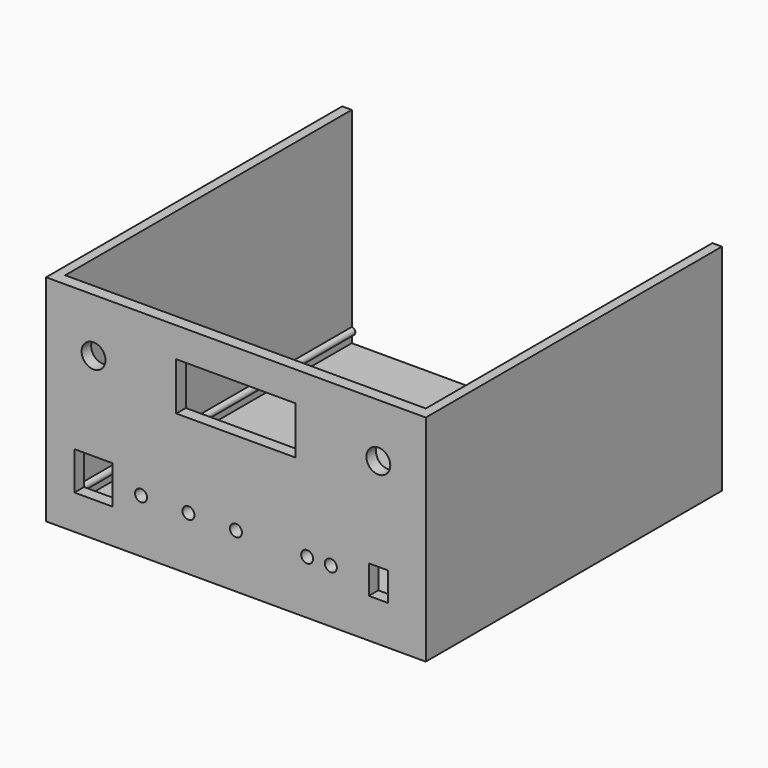
from build123d import *

# Parameters (mm, degrees)
F0_W     = 159
F0_H     = 90
F0_W_2   = 16
F0_H_2   = 16
F0_R     = 2.5
F0_W_3   = 8
F0_H_3   = 12
F0_R_2   = 5
F0_W_4   = 50
F0_H_4   = 20
F1_DEPTH = 5
F3_DEPTH = 150


with BuildPart() as f1:
    # F0 (on Front) → F1 (new body)
    with BuildSketch(Plane.XZ):
        with Locations((0, 45)):
            Rectangle(F0_W, F0_H)
        with Locations((-59.625, 22.5)):
            Rectangle(F0_W_2, F0_H_2, mode=Mode.SUBTRACT)
        with Locations((-39.75, 22.5)):
            Circle(F0_R, mode=Mode.SUBTRACT)
        with Locations((-19.875, 22.5)):
            Circle(F0_R, mode=Mode.SUBTRACT)
        with Locations((0, 22.5)):
            Circle(F0_R, mode=Mode.SUBTRACT)
        with Locations((29.8125, 22.5)):
            Circle(F0_R, mode=Mode.SUBTRACT)
        with Locations((39.75, 22.5)):
            Circle(F0_R, mode=Mode.SUBTRACT)
        with Locations((59.625, 22.5)):
            Rectangle(F0_W_3, F0_H_3, mode=Mode.SUBTRACT)
        with Locations((-59.625, 67.5)):
            Circle(F0_R_2, mode=Mode.SUBTRACT)
        with Locations((0, 67.5)):
            Rectangle(F0_W_4, F0_H_4, mode=Mode.SUBTRACT)
        with Locations((59.625, 67.5)):
            Circle(F0_R_2, mode=Mode.SUBTRACT)
    extrude(amount=F1_DEPTH)

    # F2 (on face) → F3 (join)
    with BuildSketch(Plane(origin=(0, 0, 0), x_dir=(-1, 0, 0), z_dir=(0, 1, 0))):
        with BuildLine():
            Line((75.5, 4), (-75.5, 4))
            Line((-75.5, 4), (-75.5, 7))
            ThreePointArc((-75.5, 7), (-74, 8.5), (-75.5, 10))
            Line((-75.5, 10), (-75.5, 90))
            Line((-75.5, 90), (-79.5, 90))
            Line((-79.5, 90), (-79.5, 0))
            Line((-79.5, 0), (79.5, 0))
            Line((79.5, 0), (79.5, 90))
            Line((79.5, 90), (75.5, 90))
            Line((75.5, 90), (75.5, 10))
            ThreePointArc((75.5, 10), (74, 8.5), (75.5, 7))
            Line((75.5, 7), (75.5, 4))
        make_face()
    extrude(amount=F3_DEPTH)


solid = f1.part
